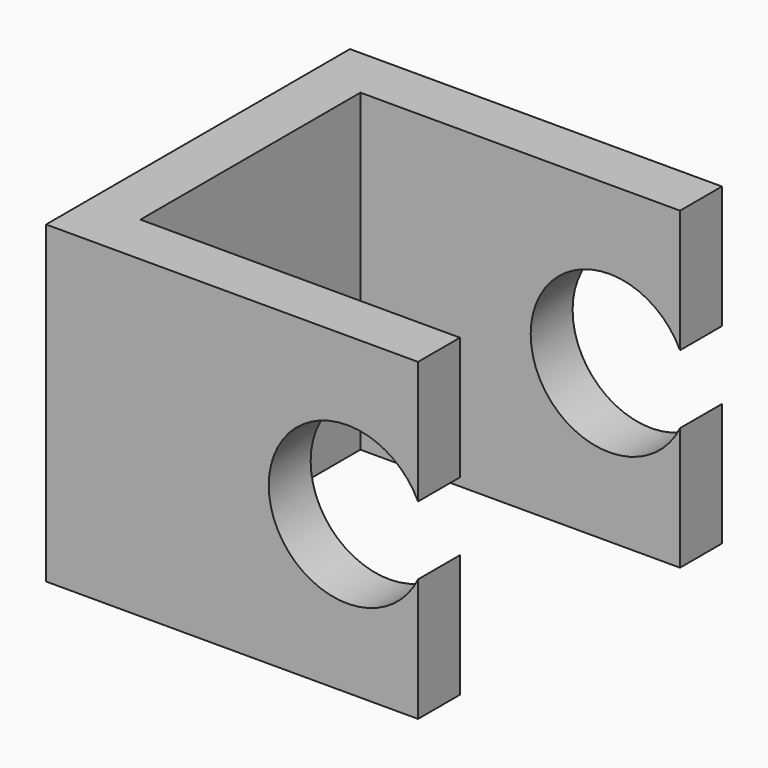
from build123d import *

# Parameters (mm, degrees)
F1_DEPTH = 12
F3_DEPTH = 33


with BuildPart() as f1:
    # F0 (on Top) → F1 (new body)
    with BuildSketch(Plane.XY):
        Polygon((0, -2), (0, 0), (-12.2, 0), (-12.2, 10.5), (0, 10.5), (0, 12.5), (-14.2, 12.5), (-14.2, -2), align=None)
    extrude(amount=F1_DEPTH)

    # F2 (on face) → F3 (cut, symmetric)
    with BuildSketch(Plane.XZ.offset(2)):
        with BuildLine():
            Line((0, 4.69233), (0, 7.30767))
            ThreePointArc((0, 7.30767), (-5.7, 6), (0, 4.69233))
        make_face()
    extrude(amount=F3_DEPTH, both=True, mode=Mode.SUBTRACT)


solid = f1.part
